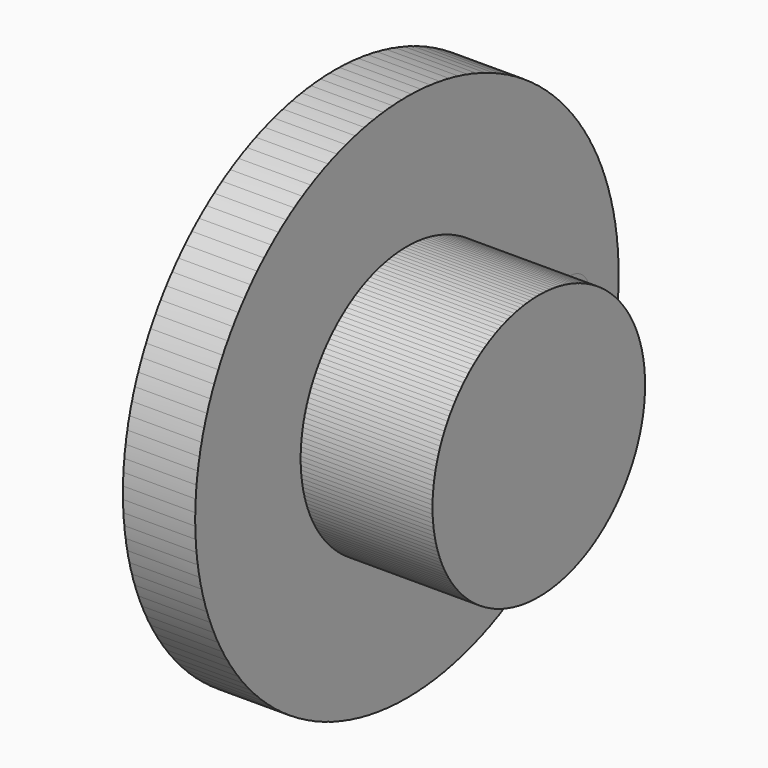
from build123d import *

# Parameters (mm, degrees)
F2_R     = 6.35
F3_DEPTH = 19.051
F4_COUNT = 4


with BuildPart() as f1:
    # F0 (on Front) → F1 (revolve)
    with BuildSketch(Plane.XZ):
        Polygon((0, 69.85), (0, 0), (53.848, 0), (53.848, 35.052), (19.05, 35.052), (19.05, 69.85), align=None)
    revolve(axis=Axis((102.904952, 0, 0), (1, 0, 0)))

    # F2 (on face) → F3 (cut, through all)
    with BuildSketch(Plane.YZ.offset(19.05)):
        with Locations((0, 53.848)):
            Circle(F2_R)
    extrude(amount=-F3_DEPTH, mode=Mode.SUBTRACT)


with BuildPart() as f4_1:
    # F4: instance of F1
    add(f1.part.rotate(Axis((0, 0, 0), (1, 0, 0)), 1 * 360 / F4_COUNT))


with BuildPart() as f4_2:
    # F4: instance of F1
    add(f1.part.rotate(Axis((0, 0, 0), (1, 0, 0)), 2 * 360 / F4_COUNT))


with BuildPart() as f4_3:
    # F4: instance of F1
    add(f1.part.rotate(Axis((0, 0, 0), (1, 0, 0)), 3 * 360 / F4_COUNT))


solid = Compound([f1.part, f4_1.part, f4_2.part, f4_3.part])
